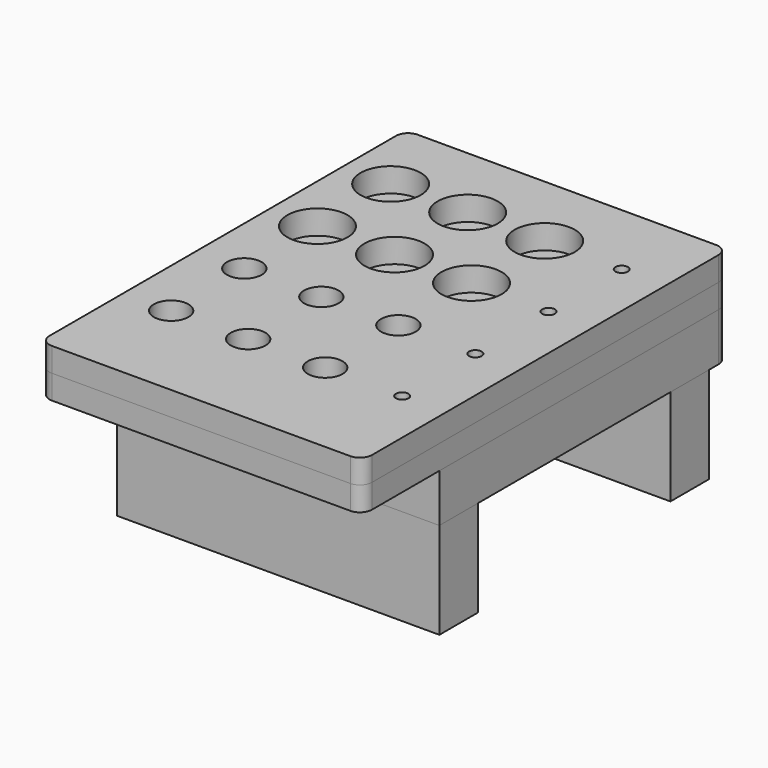
from build123d import *

# Parameters (mm, degrees)
F0_W     = 85.09
F0_H     = 95.25
F1_DEPTH = 12.7
F3_DEPTH = 6.35
F4_W     = 85.09
F4_H     = 12.7
F5_DEPTH = 25.4
F6_W     = 85.09
F6_H     = 120.65
F6_R     = 4.572
F6_R_2   = 1.651
F6_R_3   = 7.9375
F7_DEPTH = 6.35
F8_R     = 1.651
F9_DEPTH = 25.4
F10_R    = 3.175
F10_2_R  = 3.175
F10_3_R  = 3.175


with BuildPart() as f1:
    # F0 (on Top) → F1 (new body)
    with BuildSketch(Plane.XY):
        Rectangle(F0_W, F0_H)
    extrude(amount=F1_DEPTH)

    # F10#3
    f10_3_edges = [f1.edges().sort_by_distance(p)[0] for p in [
        (42.545, 47.625, 6.35),
        (-42.545, 47.625, 6.35),
    ]]
    fillet(f10_3_edges, radius=F10_3_R)


with BuildPart() as f3:
    # F2 (on face) → F3 (new body)
    with BuildSketch(Plane.XY.offset(12.7)):
        Polygon((42.545, 47.625), (-42.545, 47.625), (-42.545, -73.025), (-36.195, -73.025), (-21.971, -73.025), (-7.112, -73.025), (7.112, -73.025), (21.971, -73.025), (36.195, -73.025), (42.545, -73.025), align=None)
    extrude(amount=F3_DEPTH)

    # F8 (on face) → F9 (cut)
    with BuildSketch(Plane.XY.offset(19.05)):
        with Locations((30.9671923435, -45.4025)):
            Circle(F8_R)
        with Locations((30.9671923435, -21.2725)):
            Circle(F8_R)
        with Locations((30.9671923435, 2.8575)):
            Circle(F8_R)
        with Locations((30.9671923435, 26.9875)):
            Circle(F8_R)
    extrude(amount=-F9_DEPTH, mode=Mode.SUBTRACT)

    # F10#2
    f10_2_edges = [f3.edges().sort_by_distance(p)[0] for p in [
        (42.545, -73.025, 15.875),
        (42.545, 47.625, 15.875),
        (-42.545, 47.625, 15.875),
        (-42.545, -73.025, 15.875),
    ]]
    fillet(f10_2_edges, radius=F10_2_R)


with BuildPart() as f5:
    # F4 (on face) → F5 (new body)
    with BuildSketch(Plane(origin=(0, 0, 0), x_dir=(1, 0, 0), z_dir=(0, 0, -1))):
        with Locations((0, 41.275)):
            Rectangle(F4_W, F4_H)
    extrude(amount=F5_DEPTH)


with BuildPart() as f5b:
    # F4 (on face) → F5, piece 2 (new body)
    with BuildSketch(Plane(origin=(0, 0, 0), x_dir=(1, 0, 0), z_dir=(0, 0, -1))):
        with Locations((0, -34.925)):
            Rectangle(F4_W, F4_H)
    extrude(amount=F5_DEPTH)


with BuildPart() as f7:
    # F6 (on face) → F7 (new body)
    with BuildSketch(Plane.XY.offset(19.05)):
        with Locations((0, -12.7)):
            Rectangle(F6_W, F6_H)
        with Locations((-29.9928076565, -45.4025)):
            Circle(F6_R, mode=Mode.SUBTRACT)
        with Locations((-9.6728076565, -45.4025)):
            Circle(F6_R, mode=Mode.SUBTRACT)
        with Locations((-29.9928076565, -21.2725)):
            Circle(F6_R, mode=Mode.SUBTRACT)
        with Locations((-9.6728076565, -21.2725)):
            Circle(F6_R, mode=Mode.SUBTRACT)
        with Locations((10.6471923435, -45.4025)):
            Circle(F6_R, mode=Mode.SUBTRACT)
        with Locations((30.9671923435, -45.4025)):
            Circle(F6_R_2, mode=Mode.SUBTRACT)
        with Locations((10.6471923435, -21.2725)):
            Circle(F6_R, mode=Mode.SUBTRACT)
        with Locations((30.9671923435, -21.2725)):
            Circle(F6_R_2, mode=Mode.SUBTRACT)
        with Locations((-29.9928076565, 2.8575)):
            Circle(F6_R_3, mode=Mode.SUBTRACT)
        with Locations((-9.6728076565, 2.8575)):
            Circle(F6_R_3, mode=Mode.SUBTRACT)
        with Locations((-29.9928076565, 26.9875)):
            Circle(F6_R_3, mode=Mode.SUBTRACT)
        with Locations((-9.6728076565, 26.9875)):
            Circle(F6_R_3, mode=Mode.SUBTRACT)
        with Locations((10.6471923435, 2.8575)):
            Circle(F6_R_3, mode=Mode.SUBTRACT)
        with Locations((30.9671923435, 2.8575)):
            Circle(F6_R_2, mode=Mode.SUBTRACT)
        with Locations((10.6471923435, 26.9875)):
            Circle(F6_R_3, mode=Mode.SUBTRACT)
        with Locations((30.9671923435, 26.9875)):
            Circle(F6_R_2, mode=Mode.SUBTRACT)
    extrude(amount=F7_DEPTH)

    # F10
    f10_edges = [f7.edges().sort_by_distance(p)[0] for p in [
        (42.545, -73.025, 22.225),
        (42.545, 47.625, 22.225),
        (-42.545, -73.025, 22.225),
        (-42.545, 47.625, 22.225),
    ]]
    fillet(f10_edges, radius=F10_R)


solid = Compound([f1.part, f3.part, f5.part, f5b.part, f7.part])
